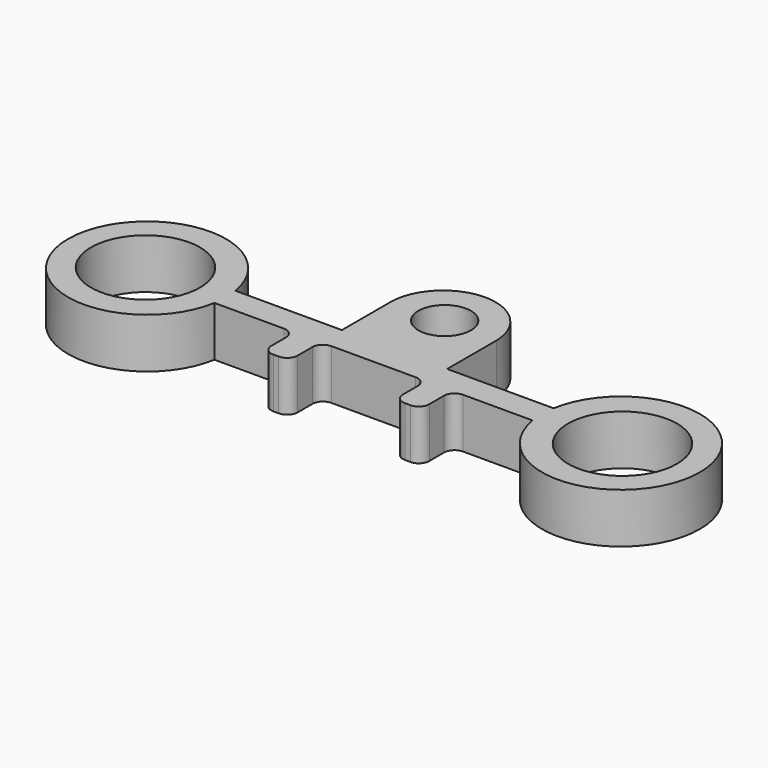
from build123d import *

# Parameters (mm, degrees)
PAD001_DEPTH        = 2
SKETCH008_R         = 1
POCKET006_DEPTH     = 5
SKETCH010_R         = 2.07
POCKET007_DEPTH     = 2
FILLET002_R         = 0.4
FILLET002_FACE5_R   = 2.07
FILLET002_FACE5_R_2 = 1
POCKET011_DEPTH     = 0.1


with BuildPart() as part:
    # Sketch007 → Pad001 (new body)
    with BuildSketch(Plane.XY):
        with BuildLine():
            ThreePointArc((6.0419601085, -0.5), (12, 0), (6.0419601085, 0.5))
            Line((1.99959996, 0.5), (6.0419601085, 0.5))
            Line((1.99959996, 2.84), (1.99959996, 0.5))
            ThreePointArc((1.99959996, 2.84), (0, 4.8), (-1.99959996, 2.84))
            Line((-1.99959996, 2.84), (-1.99959996, 0.5))
            Line((-6.0419601085, 0.5), (-1.99959996, 0.5))
            ThreePointArc((-6.0419601085, 0.5), (-12, 0), (-6.0419601085, -0.5))
            Line((-6.0419601085, -0.5), (-3, -0.5))
            Line((-3, -0.5), (-3, -2))
            Line((-3, -2), (-2, -2))
            Line((-2, -2), (-2, -0.5))
            Line((-2, -0.5), (2, -0.5))
            Line((2, -0.5), (2, -2))
            Line((2, -2), (3, -2))
            Line((3, -2), (3, -0.5))
            Line((3, -0.5), (6.0419601085, -0.5))
        make_face()
    extrude(amount=PAD001_DEPTH)

    # Sketch008 (on Face18 of Pad001) → Pocket006 (cut)
    with BuildSketch(Plane.XY.offset(2)):
        with Locations((0, 2.88)):
            Circle(SKETCH008_R)
    extrude(amount=-POCKET006_DEPTH, mode=Mode.SUBTRACT)

    # Sketch010 (on Face5 of Pocket006) → Pocket007 (cut)
    with BuildSketch(Plane.XY.offset(2)):
        with Locations((-9.06, 0)):
            Circle(SKETCH010_R)
        with Locations((9.06, 0)):
            Circle(SKETCH010_R)
    extrude(amount=-POCKET007_DEPTH, mode=Mode.SUBTRACT)

    # Fillet002
    fillet002_edges = [part.edges().sort_by_distance(p)[0] for p in [
        (-3, -2, 1),
        (-2, -2, 1),
        (-3, -0.5, 1),
        (-2, -0.5, 1),
        (2, -0.5, 1),
        (2, -2, 1),
        (3, -2, 1),
        (3, -0.5, 1),
    ]]
    fillet(fillet002_edges, radius=FILLET002_R)

    # Fillet002 Face5 → Pocket011 (cut)
    with BuildSketch(Plane(origin=(0, 0.4471888212, 2), x_dir=(0, 1, 0), z_dir=(0, 0, 1))):
        with BuildLine():
            Line((-0.9471888212, 6.0419601085), (-0.9471888212, 3.4))
            ThreePointArc((-0.9471888212, 3.4), (-1.0643461087, 3.1171572875), (-1.3471888212, 3))
            Line((-1.3471888212, 3), (-2.0471888212, 3))
            ThreePointArc((-2.0471888212, 3), (-2.3300315337, 2.8828427125), (-2.4471888212, 2.6))
            Line((-2.4471888212, 2.6), (-2.4471888212, 2.4))
            ThreePointArc((-2.4471888212, 2.4), (-2.3300315337, 2.1171572875), (-2.0471888212, 2))
            Line((-2.0471888212, 2), (-1.3471888212, 2))
            ThreePointArc((-1.3471888212, 2), (-1.0643461087, 1.8828427125), (-0.9471888212, 1.6))
            Line((-0.9471888212, 1.6), (-0.9471888212, -1.6))
            ThreePointArc((-0.9471888212, -1.6), (-1.0643461087, -1.8828427125), (-1.3471888212, -2))
            Line((-1.3471888212, -2), (-2.0471888212, -2))
            ThreePointArc((-2.0471888212, -2), (-2.3300315337, -2.1171572875), (-2.4471888212, -2.4))
            Line((-2.4471888212, -2.4), (-2.4471888212, -2.6))
            ThreePointArc((-2.4471888212, -2.6), (-2.3300315337, -2.8828427125), (-2.0471888212, -3))
            Line((-2.0471888212, -3), (-1.3471888212, -3))
            ThreePointArc((-1.3471888212, -3), (-1.0643461087, -3.1171572875), (-0.9471888212, -3.4))
            Line((-0.9471888212, -3.4), (-0.9471888212, -6.0419601085))
            ThreePointArc((-0.9471888212, -6.0419601085), (-0.4471888212, -12), (0.0528111788, -6.0419601085))
            Line((0.0528111788, -6.0419601085), (0.0528111788, -1.99959996))
            Line((0.0528111788, -1.99959996), (2.3928111788, -1.99959996))
            ThreePointArc((2.3928111788, -1.99959996), (4.3528111788, 0), (2.3928111788, 1.99959996))
            Line((2.3928111788, 1.99959996), (0.0528111788, 1.99959996))
            Line((0.0528111788, 1.99959996), (0.0528111788, 6.0419601085))
            ThreePointArc((0.0528111788, 6.0419601085), (-0.4471888212, 12), (-0.9471888212, 6.0419601085))
        make_face()
        with Locations((-0.4471888212, 9.06)):
            Circle(FILLET002_FACE5_R, mode=Mode.SUBTRACT)
        with Locations((-0.4471888212, -9.06)):
            Circle(FILLET002_FACE5_R, mode=Mode.SUBTRACT)
        with Locations((2.4328111788, 0)):
            Circle(FILLET002_FACE5_R_2, mode=Mode.SUBTRACT)
    extrude(amount=-POCKET011_DEPTH, mode=Mode.SUBTRACT)


with BuildPart() as part_1:
    # Body001 placement: moved
    add(part.part.moved(Location((0, 0, 3))))


solid = part_1.part
